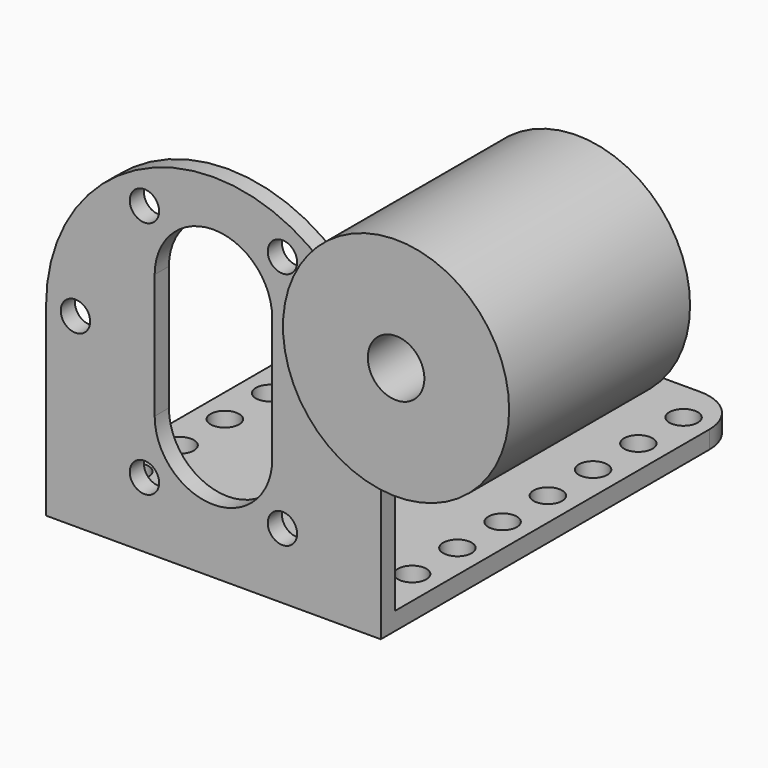
from build123d import *

# Parameters (mm, degrees)
F1_DEPTH  = 2
F2_R      = 1.651
F3_DEPTH  = 2
F5_DEPTH  = 2
F6_W      = 37.592
F6_H      = 51.2
F7_DEPTH  = 2
F8_R      = 1.6
F9_DEPTH  = 2
F10_R     = 5.08
F11_R     = 12.7
F12_DEPTH = 25.4
F13_D     = 6.35
F14_R     = 6.35
F15_DEPTH = 15.875


with BuildPart() as f1:
    # F0 (on Front) → F1 (new body)
    with BuildSketch(Plane.XZ):
        with BuildLine():
            Line((-18.796, 18.8), (-18.796, 0))
            Line((-18.796, 0), (18.796, 0))
            Line((18.796, 0), (18.796, 18.8))
            ThreePointArc((18.796, 18.8), (0, 37.596), (-18.796, 18.8))
        make_face()
    extrude(amount=F1_DEPTH)

    # F2 (on face) → F3 (cut, through all)
    with BuildSketch(Plane.XZ.offset(2)):
        with Locations((-15.5, 18.8)):
            Circle(F2_R)
        with Locations((-7.75, 32.2233937587)):
            Circle(F2_R)
        with Locations((7.75, 32.2233937587)):
            Circle(F2_R)
        with Locations((7.75, 5.3766062413)):
            Circle(F2_R)
        with Locations((-7.75, 5.3766062413)):
            Circle(F2_R)
        with Locations((15.5, 18.8)):
            Circle(F2_R)
    extrude(amount=-F3_DEPTH, mode=Mode.SUBTRACT)

    # F4 (on face) → F5 (cut, through all)
    with BuildSketch(Plane.XZ.offset(2)):
        with BuildLine():
            ThreePointArc((6.6, 25.8), (0, 32.4), (-6.6, 25.8))
            Line((-6.6, 25.8), (-6.6, 11.8))
            ThreePointArc((-6.6, 11.8), (0, 5.2), (6.6, 11.8))
            Line((6.6, 11.8), (6.6, 25.8))
        make_face()
    extrude(amount=-F5_DEPTH, mode=Mode.SUBTRACT)

    # F6 (on Top) → F7 (join)
    with BuildSketch(Plane.XY):
        with Locations((0, 23.6)):
            Rectangle(F6_W, F6_H)
    extrude(amount=-F7_DEPTH)

    # F8 (on face) → F9 (cut, through all)
    with BuildSketch(Plane.XY):
        with Locations((-15.6, 44.5)):
            Circle(F8_R)
        with Locations((-15.6, 38.15)):
            Circle(F8_R)
        with Locations((-15.6, 31.8)):
            Circle(F8_R)
        with Locations((-15.6, 25.45)):
            Circle(F8_R)
        with Locations((-15.6, 19.1)):
            Circle(F8_R)
        with Locations((-15.6, 12.75)):
            Circle(F8_R)
        with Locations((-15.6, 6.4)):
            Circle(F8_R)
        with Locations((15.6, 44.5)):
            Circle(F8_R)
        with Locations((15.6, 38.15)):
            Circle(F8_R)
        with Locations((15.6, 31.8)):
            Circle(F8_R)
        with Locations((15.6, 25.45)):
            Circle(F8_R)
        with Locations((15.6, 19.1)):
            Circle(F8_R)
        with Locations((15.6, 12.75)):
            Circle(F8_R)
        with Locations((15.6, 6.4)):
            Circle(F8_R)
    extrude(amount=-F9_DEPTH, mode=Mode.SUBTRACT)

    # F10
    f10_edges = [f1.edges().sort_by_distance(p)[0] for p in [
        (-18.796, 49.2, -1),
        (18.796, 49.2, -1),
    ]]
    fillet(f10_edges, radius=F10_R)


with BuildPart() as f12:
    # F11 (on Front) → F12 (new body)
    with BuildSketch(Plane.XZ):
        with Locations((39.2319560051, 40.971301496)):
            Circle(F11_R)
    extrude(amount=F12_DEPTH)

    # F13 (through all)
    with Locations(Plane(origin=(0, 0, 0), x_dir=(1, 0, 0), z_dir=(0, 1, 0))):
        with Locations((39.2319560051, -40.971301496)):
            Hole(F13_D / 2)

    # F14 (on face) → F15 (cut)
    with BuildSketch(Plane.XZ):
        with Locations((39.2319560051, 40.971301496)):
            Circle(F14_R)
    extrude(amount=F15_DEPTH, mode=Mode.SUBTRACT)


solid = Compound([f1.part, f12.part])
